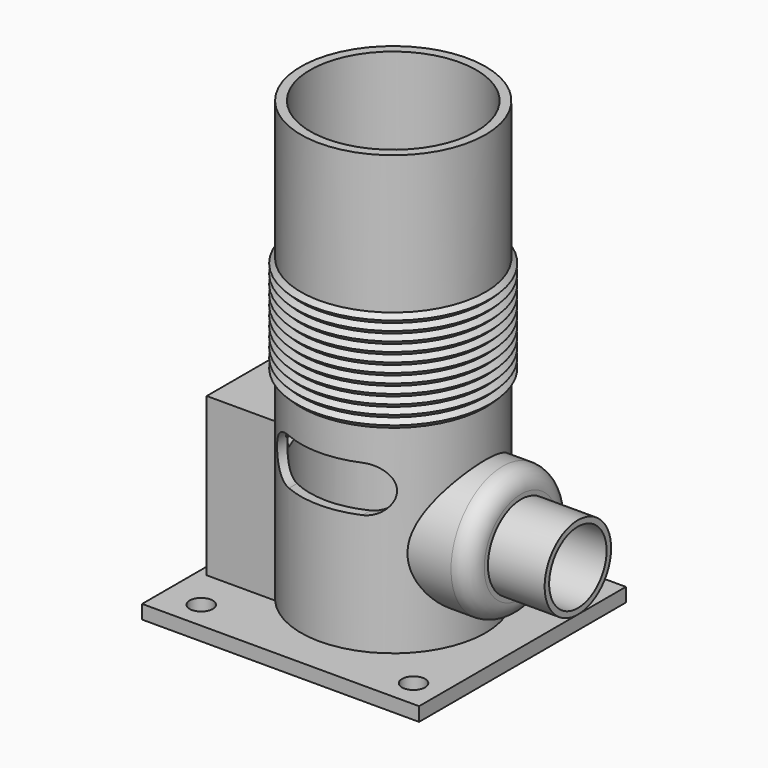
from build123d import *

# Parameters (mm, degrees)
F5_W      = 30
F5_H      = 28
F5_R      = 1.25
F6_DEPTH  = 1.5
F8_DEPTH  = 12.5
F10_DEPTH = 16
F11_W     = 10.0793595053
F11_H     = 13
F12_DEPTH = 1.1
F14_DEPTH = 11
F15_R     = 9
F16_DEPTH = 50.001
F17_R     = 3.8869146779
F18_DEPTH = 18


with BuildPart() as f1:
    # F0 (on Front) → F1 (revolve)
    with BuildSketch(Plane.XZ):
        Polygon((0, 50), (0, 0), (10, 0), (10, 24), (10.5, 24.5), (10, 25), (10.5, 25.5), (10, 26), (10.5, 26.5), (10, 27), (10.5, 27.5), (10, 28), (10.5, 28.5), (10, 29), (10.5, 29.5), (10, 30), (10.5, 30.5), (10, 31), (10.5, 31.5), (10, 32), (10.5, 32.5), (10, 33), (10.5, 33.5), (10, 34), (10.5, 34.5), (10, 35), (10, 50), align=None)
    revolve(axis=Axis((0, 0, 25), (0, 0, 1)))

    # F2 (on Front) → F3 (revolve)
    with BuildSketch(Plane.XZ):
        with BuildLine():
            Line((0, 19), (0, 12))
            Line((0, 12), (20, 12))
            Line((20, 12), (20, 16.5))
            Line((20, 16.5), (13.858917554, 16.5))
            Line((13.858917554, 16.5), (13.858917554, 17))
            ThreePointArc((13.858917554, 17), (13.2731311164, 18.4142135624), (11.858917554, 19))
            Line((11.858917554, 19), (0, 19))
        make_face()
    revolve(axis=Axis((10, 0, 12), (1, 0, 0)))

    # F5 (on offset) → F6 (join)
    with BuildSketch(Plane.XY.offset(1)):
        with Locations((-1, 0)):
            Rectangle(F5_W, F5_H)
        with Locations((-12, -11)):
            Circle(F5_R, mode=Mode.SUBTRACT)
        with Locations((11, -11)):
            Circle(F5_R, mode=Mode.SUBTRACT)
        with BuildLine():
            ThreePointArc((-13.5000001043, 3.5), (-12.0000001043, 5), (-10.5000001043, 3.5))
            Line((-10.5000001043, 3.5), (-10.5000001043, -3.5))
            ThreePointArc((-10.5000001043, -3.5), (-12.0000001043, -5), (-13.5000001043, -3.5))
            Line((-13.5000001043, -3.5), (-13.5000001043, 3.5))
        make_face(mode=Mode.SUBTRACT)
        with Locations((-12.0000001043, 11)):
            Circle(F5_R, mode=Mode.SUBTRACT)
        with Locations((11, 11)):
            Circle(F5_R, mode=Mode.SUBTRACT)
    extrude(amount=F6_DEPTH)

    # F7 (on Front) → F8 (cut, symmetric)
    with BuildSketch(Plane.XZ):
        with BuildLine():
            Line((-3.9405839242, 15.5007061537), (3.9997776726, 15.5000000099))
            ThreePointArc((3.9997776726, 15.5000000099), (6.4999999975, 17.9998888363), (4, 20.5))
            Line((4, 20.5), (-4, 20.5))
            ThreePointArc((-4, 20.5), (-6.4998234553, 17.970289864), (-3.9405839242, 15.5007061537))
        make_face()
    extrude(amount=F8_DEPTH, both=True, mode=Mode.SUBTRACT)

    # F9 (on face) → F10 (join)
    with BuildSketch(Plane.XY.offset(2.5)):
        Polygon((-14, 5.5), (-7.2089033201, 5.5), (-7.2089033201, 6.5), (-15, 6.5), (-15, 0), (-15, -6.5), (-7.2089033201, -6.5), (-7.2089033201, -5.5), (-14, -5.5), (-14, 0), align=None)
    extrude(amount=F10_DEPTH)

    # F11 (on face) → F12 (join)
    with BuildSketch(Plane.XY.offset(18.5)):
        with Locations((-9.9603202473, 0)):
            Rectangle(F11_W, F11_H)
    extrude(amount=F12_DEPTH)

    # F13 (on Right) → F14 (cut)
    with BuildSketch(Plane.YZ):
        with BuildLine():
            Line((-3.6046634893, 16.0045541269), (3.6993764126, 15.9999994103))
            ThreePointArc((3.6993764126, 15.9999994103), (4.6999999566, 16.9997008869), (3.6999730703, 17.9999992155))
            Line((3.6999730703, 17.9999992155), (-3.6800630308, 17.9998004652))
            ThreePointArc((-3.6800630308, 17.9998004652), (-4.6982990996, 17.0582996619), (-3.7965779658, 16.0046738026))
            Line((-3.7965779658, 16.0046738026), (-3.6046634893, 16.0045541269))
        make_face()
        with BuildLine():
            ThreePointArc((-3.7965779658, 16.0046738026), (-3.7006236051, 15.9999994211), (-3.6046634893, 16.0045541269))
            Line((-3.6046634893, 16.0045541269), (-3.7965779658, 16.0046738026))
        make_face()
    extrude(amount=-F14_DEPTH, mode=Mode.SUBTRACT)

    # F15 (on Top) → F16 (cut, through all)
    with BuildSketch(Plane.XY):
        Circle(F15_R)
    extrude(amount=F16_DEPTH, mode=Mode.SUBTRACT)

    # F17 (on face) → F18 (cut)
    with BuildSketch(Plane.YZ.offset(20)):
        with Locations((0, 12)):
            Circle(F17_R)
    extrude(amount=-F18_DEPTH, mode=Mode.SUBTRACT)


solid = f1.part
